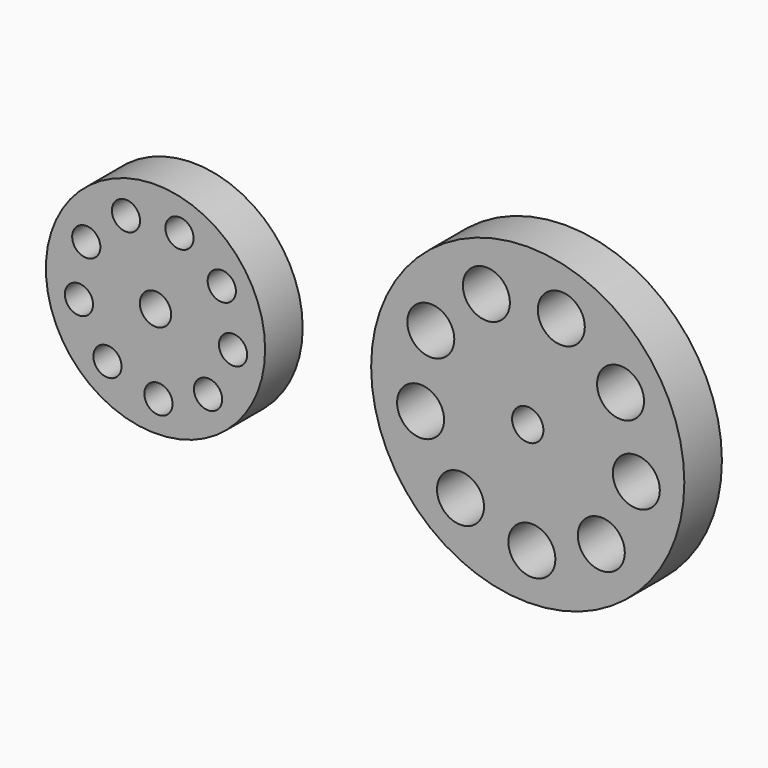
from build123d import *

# Parameters (mm, degrees)
F0_R     = 127
F0_R_2   = 19.05
F0_R_3   = 12.7
F0_R_4   = 88.9
F0_R_5   = 11.43
F1_DEPTH = 38.1


with BuildPart() as f1:
    # F0 (on Front) → F1 (new body)
    with BuildSketch(Plane.XZ):
        with Locations((-27.276136, -9.597159)):
            Circle(F0_R)
        with Locations((-81.810238, -79.805717)):
            Circle(F0_R_2, mode=Mode.SUBTRACT)
        with Locations((-23.922491, -98.43388)):
            Circle(F0_R_2, mode=Mode.SUBTRACT)
        with Locations((32.396049, -75.494354)):
            Circle(F0_R_2, mode=Mode.SUBTRACT)
        with Locations((-114.180874, -28.32619)):
            Circle(F0_R_2, mode=Mode.SUBTRACT)
        with Locations((60.79331, -21.720798)):
            Circle(F0_R_2, mode=Mode.SUBTRACT)
        with Locations((-105.887816, 31.91686)):
            Circle(F0_R_2, mode=Mode.SUBTRACT)
        with Locations((-27.276136, -9.597159)):
            Circle(F0_R_3, mode=Mode.SUBTRACT)
        with Locations((47.981899, 37.725544)):
            Circle(F0_R_2, mode=Mode.SUBTRACT)
        with Locations((-60.81148, 72.735038)):
            Circle(F0_R_2, mode=Mode.SUBTRACT)
        with Locations((-0.043583, 75.029067)):
            Circle(F0_R_2, mode=Mode.SUBTRACT)
        with Locations((-329.159146, -25.208248)):
            Circle(F0_R_4)
        with Locations((-368.112076, -75.357219)):
            Circle(F0_R_5, mode=Mode.SUBTRACT)
        with Locations((-326.763685, -88.663049)):
            Circle(F0_R_5, mode=Mode.SUBTRACT)
        with Locations((-391.233958, -38.586127)):
            Circle(F0_R_5, mode=Mode.SUBTRACT)
        with Locations((-329.159146, -25.208248)):
            Circle(F0_R_3, mode=Mode.SUBTRACT)
        with Locations((-286.536156, -72.277673)):
            Circle(F0_R_5, mode=Mode.SUBTRACT)
        with Locations((-266.252398, -33.86799)):
            Circle(F0_R_5, mode=Mode.SUBTRACT)
        with Locations((-385.310346, 4.444622)):
            Circle(F0_R_5, mode=Mode.SUBTRACT)
        with Locations((-353.112963, 33.600464)):
            Circle(F0_R_5, mode=Mode.SUBTRACT)
        with Locations((-309.707322, 35.239056)):
            Circle(F0_R_5, mode=Mode.SUBTRACT)
        with Locations((-275.403406, 8.593682)):
            Circle(F0_R_5, mode=Mode.SUBTRACT)
    extrude(amount=F1_DEPTH)


solid = f1.part
